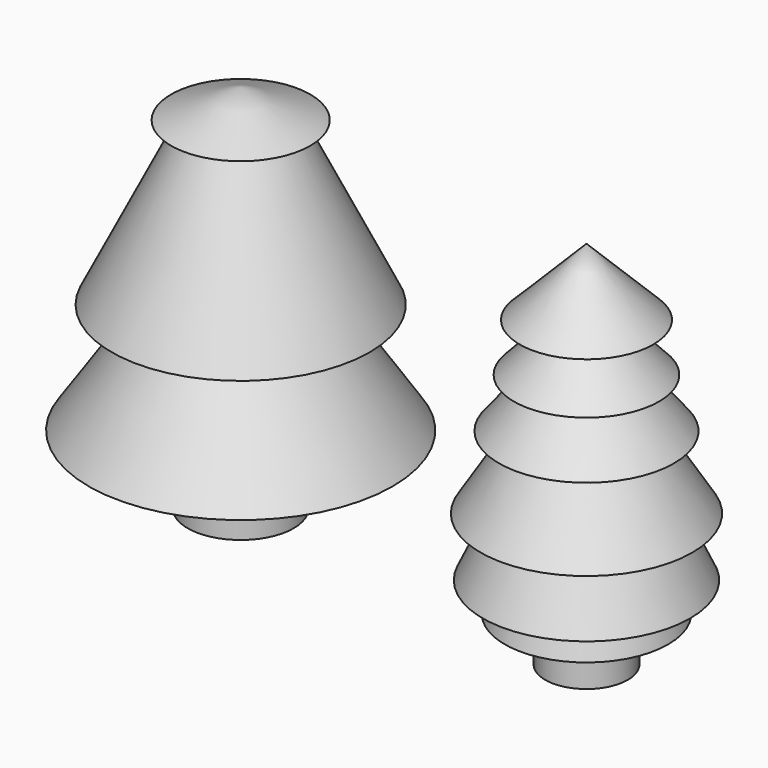
from build123d import *

# Parameters (mm, degrees)
F0_W = 6.242052
F0_H = 5.17796


with BuildPart() as f1:
    # F0 (on Front) → F1 (revolve)
    with BuildSketch(Plane.XZ):
        Polygon((10.088219, 19.306762), (0, 29.437619), (0, -21.362381), (6.242052, -21.362381), (6.261653, -15.65413), (12.349371, -19.828565), (8.696741, -6.435587), (15.654132, -15.306261), (8.696741, 0), (16.002001, -6.435587), (7.131328, 7.827065), (13.219045, 4.522305), (5.39198, 14.436588), (10.957892, 12.0015), (4.174437, 19.306762), (4.174437, 21.915782), align=None)
        with Locations((3.121026, -23.951361)):
            Rectangle(F0_W, F0_H)
    revolve(axis=Axis((0, 0, 4.037619), (0, 0, -1)))


with BuildPart() as f3:
    # F2 (on Front) → F3 (revolve)
    with BuildSketch(Plane.XZ):
        Polygon((-41.718321, 28.884669), (-52.230552, 33.213705), (-52.230552, -22.793295), (-44.229556, -22.793295), (-44.229556, -12.357208), (-29.271163, -12.357208), (-40.40299, 4.340531), (-32.749858, 4.340531), (-44.229556, 27.647791), align=None)
    revolve(axis=Axis((-52.230552, 0, 10.080379), (0, 0, -1)))


solid = Compound([f1.part, f3.part])
